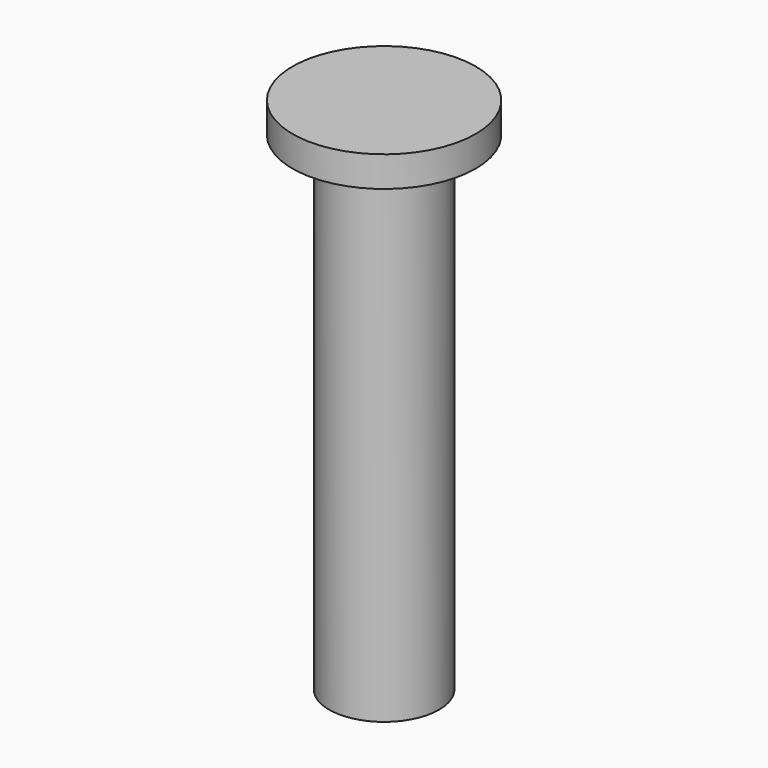
from build123d import *

# Parameters (mm, degrees)
F1_START = 6
F0_R     = 1.8
F1_DEPTH = 17
F2_START = 22
F0_R_2   = 3
F2_DEPTH = 1


with BuildPart() as f1:
    # F0 (on Top) → F1 (new body)
    with BuildSketch(Plane.XY.offset(F1_START)):
        Circle(F0_R)
    extrude(amount=F1_DEPTH)

    # F0 (on Top) → F2 (join)
    with BuildSketch(Plane.XY.offset(F2_START)):
        Circle(F0_R_2)
        Circle(F0_R, mode=Mode.SUBTRACT)
    extrude(amount=F2_DEPTH)


solid = f1.part
